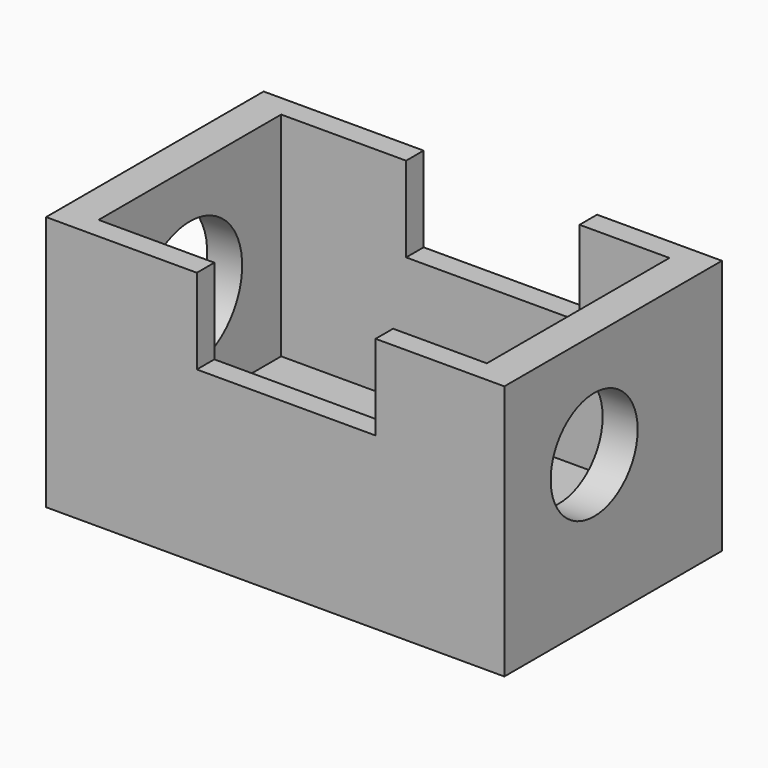
from build123d import *

# Parameters (mm, degrees)
F0_W      = 136.7070674896
F0_H      = 81.1290219426
F1_DEPTH  = 76.2
F2_W      = 115.8186718822
F2_H      = 68.073771894
F3_DEPTH  = 63.5
F4_W      = 51.7421588302
F4_H      = 6.5276250243
F5_DEPTH  = 25.4
F6_W      = 53.3207450062
F6_H      = 6.5276250243
F7_DEPTH  = 25.4
F8_R      = 19.5019980074
F9_DEPTH  = 25.4
F10_R     = 16.2167518515
F11_DEPTH = 25.4


with BuildPart() as f1:
    # F0 (on Top) → F1 (new body)
    with BuildSketch(Plane.XY):
        Rectangle(F0_W, F0_H)
    extrude(amount=F1_DEPTH)

    # F2 (on face) → F3 (cut)
    with BuildSketch(Plane.XY.offset(76.2)):
        Rectangle(F2_W, F2_H)
    extrude(amount=-F3_DEPTH, mode=Mode.SUBTRACT)

    # F4 (on face) → F5 (cut)
    with BuildSketch(Plane.XY.offset(76.2)):
        with Locations((5.2360128611, 37.3006984591)):
            Rectangle(F4_W, F4_H)
    extrude(amount=-F5_DEPTH, mode=Mode.SUBTRACT)

    # F6 (on face) → F7 (cut)
    with BuildSketch(Plane.XY.offset(76.2)):
        with Locations((3.2774237916, -37.3006984591)):
            Rectangle(F6_W, F6_H)
    extrude(amount=-F7_DEPTH, mode=Mode.SUBTRACT)

    # F8 (on face) → F9 (cut)
    with BuildSketch(Plane(origin=(-68.3535337448, 0, 0), x_dir=(0, -1, 0), z_dir=(-1, 0, 0))):
        with Locations((0, 42.4992851913)):
            Circle(F8_R)
        with Locations((0, 42.4992851913)):
            Circle(F8_R)
    extrude(amount=-F9_DEPTH, mode=Mode.SUBTRACT)

    # F10 (on face) → F11 (cut)
    with BuildSketch(Plane.YZ.offset(68.3535337448)):
        with Locations((-7.0724547841, 44.6449071169)):
            Circle(F10_R)
    extrude(amount=-F11_DEPTH, mode=Mode.SUBTRACT)


solid = f1.part
